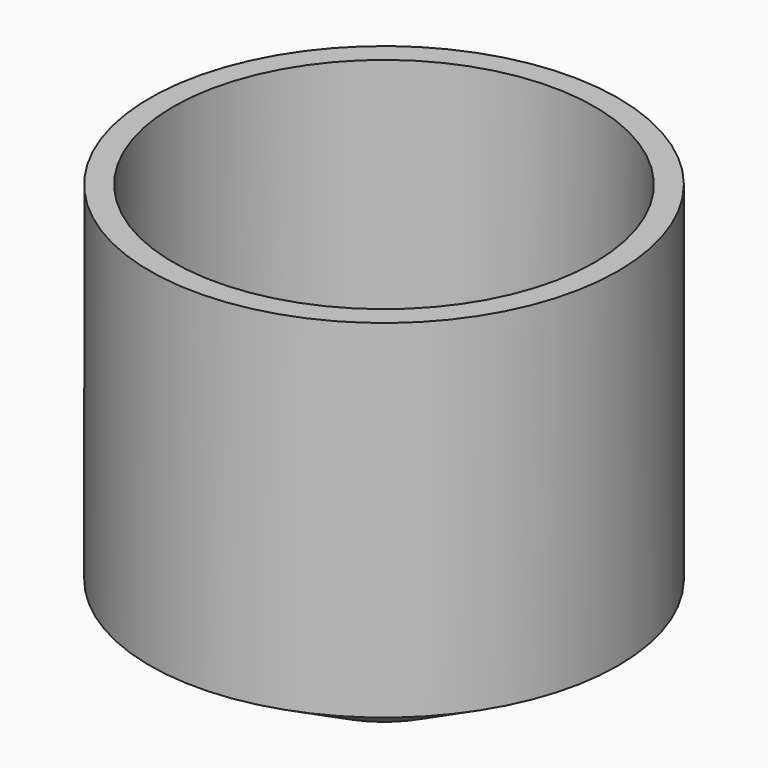
from build123d import *

# Parameters (mm, degrees)
F0_R     = 12
F0_R_2   = 10.8
F1_DEPTH = 17.8


with BuildPart() as f1:
    # F0 (on Top) → F1 (new body)
    with BuildSketch(Plane.XY):
        Circle(F0_R)
        Circle(F0_R_2, mode=Mode.SUBTRACT)
    extrude(amount=F1_DEPTH)

    # F2 (on Front) → F3 (revolve)
    with BuildSketch(Plane.XZ):
        Polygon((-3.9, -4.1), (-10.8, 0), (-12, 0), (-4.5, -4.1), align=None)
    revolve(axis=Axis((0, 0, -2.05), (0, 0, -1)))


solid = f1.part
